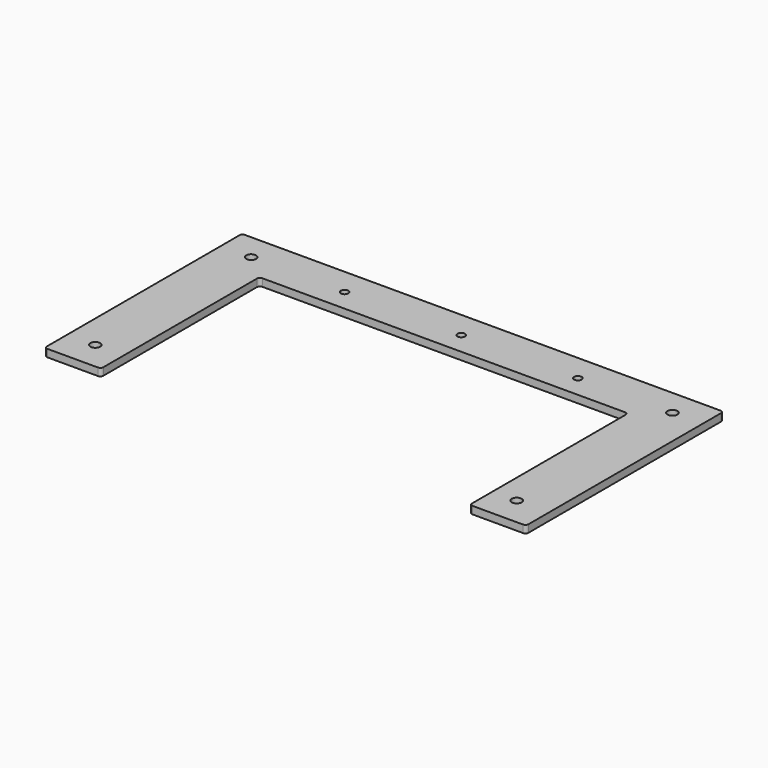
from build123d import *

# Parameters (mm, degrees)
F1_DEPTH = 6.35
F2_R     = 2.54
F3_R     = 4.1656
F4_DEPTH = 25.4
F5_R     = 3.175
F6_DEPTH = 25.4


with BuildPart() as f1:
    # F0 (on Top) → F1 (new body)
    with BuildSketch(Plane.XY):
        Polygon((203.2, 0), (-203.2, 0), (-203.2, -208.28), (-155.575, -208.28), (-155.575, -41.148), (155.575, -41.148), (155.575, -208.28), (203.2, -208.28), align=None)
    extrude(amount=F1_DEPTH)

    # F2
    f2_edges = [f1.edges().sort_by_distance(p)[0] for p in [
        (-155.575, -41.148, 3.175),
        (155.575, -41.148, 3.175),
        (155.575, -208.28, 3.175),
        (-155.575, -208.28, 3.175),
        (-203.2, -208.28, 3.175),
        (203.2, -208.28, 3.175),
        (203.2, 0, 3.175),
        (-203.2, 0, 3.175),
    ]]
    fillet(f2_edges, radius=F2_R)

    # F3 (on face) → F4 (cut)
    with BuildSketch(Plane.XY.offset(6.35)):
        with Locations((-177.693859, -22.225)):
            Circle(F3_R)
        with Locations((-179.604545, -184.15)):
            Circle(F3_R)
        with Locations((177.906141, -22.225)):
            Circle(F3_R)
        with Locations((175.995455, -184.15)):
            Circle(F3_R)
    extrude(amount=-F4_DEPTH, mode=Mode.SUBTRACT)

    # F5 (on face) → F6 (cut)
    with BuildSketch(Plane.XY.offset(6.35)):
        with Locations((0, -22.606)):
            Circle(F5_R)
        with Locations((-98.425, -22.606)):
            Circle(F5_R)
        with Locations((98.425, -22.606)):
            Circle(F5_R)
    extrude(amount=-F6_DEPTH, mode=Mode.SUBTRACT)


solid = f1.part
